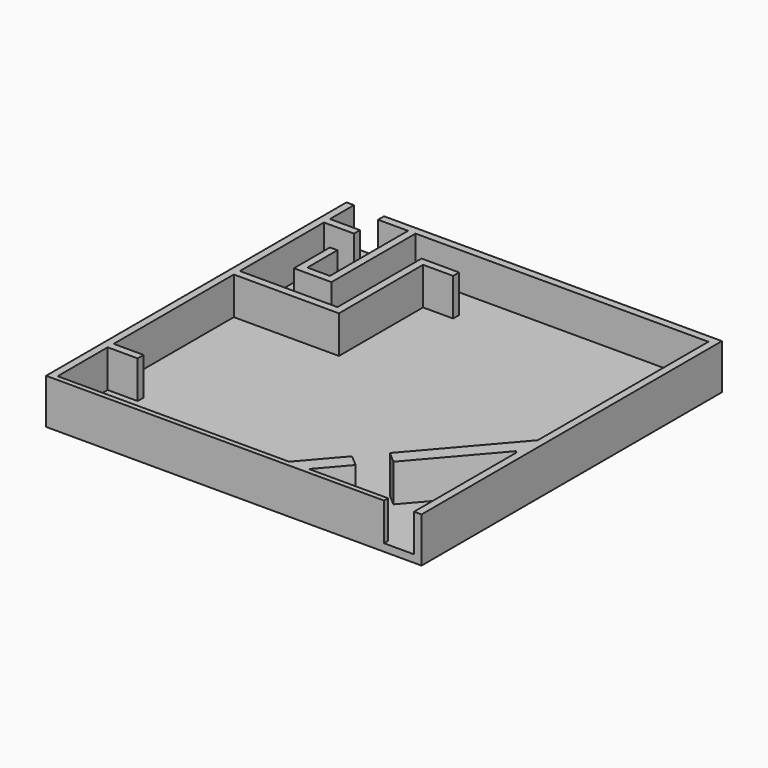
from build123d import *

# Parameters (mm, degrees)
F0_W     = 100
F0_H     = 100
F1_DEPTH = 2
F2_W     = 2
F2_H     = 2
F2_W_2   = 8
F2_H_2   = 10
F3_DEPTH = 10


with BuildPart() as f1:
    # F0 (on Top) → F1 (new body)
    with BuildSketch(Plane.XY):
        Rectangle(F0_W, F0_H)
    extrude(amount=F1_DEPTH)

    # F2 (on face) → F3 (join)
    with BuildSketch(Plane.XY.offset(2)):
        Polygon((-48, 50), (-50, 50), (-50, -30), (-48, -30), (-48, 10), (-48, 12), (-48, 40), (-48, 42), align=None)
        with Locations((-49, -31)):
            Rectangle(F2_W, F2_H)
        with Locations((-44, 41)):
            Rectangle(F2_W_2, F2_H)
        Polygon((-48, -32), (-50, -32), (-50, -50), (-48, -50), (-48, -48.655497), align=None)
        with Locations((-44, -31)):
            Rectangle(F2_W_2, F2_H)
        Polygon((-48, 12), (-48, 10), (-20, 10), (-20, 38), (-12, 38), (-12, 40), (-22, 40), (-22, 12), align=None)
        Polygon((-48, -48.655497), (-48, -50), (40, -50), (40, -48.655497), (18.924282, -48.655497), (13.644133, -48.655497), align=None)
        Polygon((22.337581, -38.566588), (13.644133, -48.655497), (18.924282, -48.655497), (25.367798, -41.177677), align=None)
        Polygon((48, -15.875603), (48, -50), (50, -50), (50, 50), (-30, 50), (-30, 48), (48, 48), (48, -8.784876), align=None)
        Polygon((47.523779, -15.465251), (48, -15.875603), (48, -8.784876), (27.559759, -32.506154), (30.589976, -35.117243), align=None)
        Polygon((-30, 48), (-30, 50), (-32, 50), (-32, 48), (-32, 22), (-38, 22), (-40, 22), (-40, 20), (-30, 20), align=None)
        with Locations((-36, 49)):
            Rectangle(F2_W_2, F2_H)
        with Locations((-39, 27)):
            Rectangle(F2_W, F2_H_2)
    extrude(amount=F3_DEPTH)


solid = f1.part
